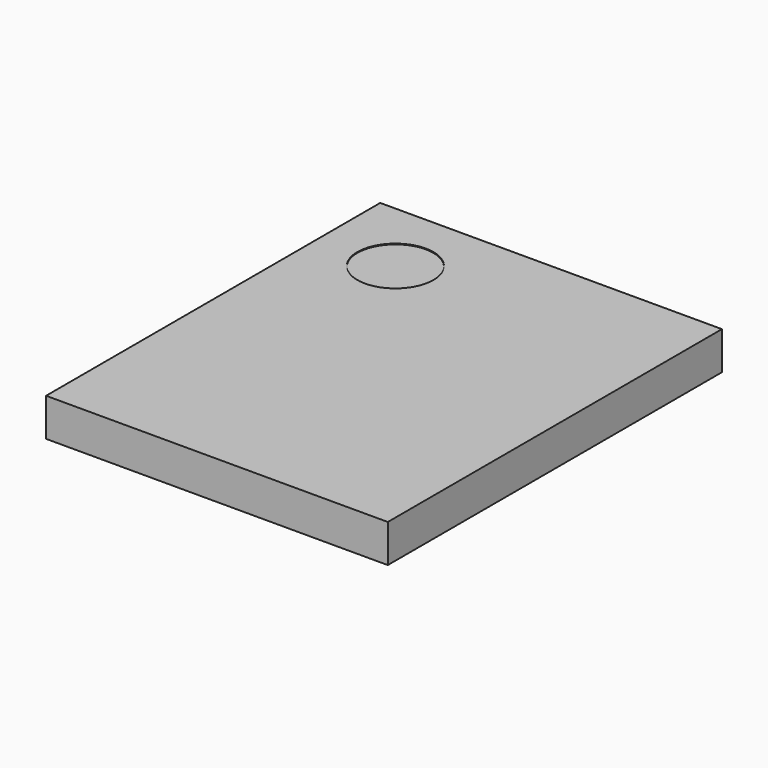
from build123d import *

# Parameters (mm, degrees)
CYLINDER018_R     = 0.5
CYLINDER018_DEPTH = 0.01
BOX051_W          = 4.5
BOX051_H          = 5.5
BOX051_DEPTH      = 0.5


with BuildPart() as cylinder013:
    # Cylinder018 → Cylinder018 (new body)
    with BuildSketch(Plane(origin=(1, 4.5, 0.49), x_dir=(1, 0, 0), z_dir=(0, 0, 1))):
        Circle(CYLINDER018_R)
    extrude(amount=CYLINDER018_DEPTH)


with BuildPart() as obj1:
    # Box051 → Box051 (new body)
    with BuildSketch(Plane.XY):
        with Locations((2.25, 2.75)):
            Rectangle(BOX051_W, BOX051_H)
    extrude(amount=BOX051_DEPTH)

    # Cut005: cut Cylinder013
    add(cylinder013.part, mode=Mode.SUBTRACT)


with BuildPart() as obj1_1:
    # Cut005 placement: moved
    add(obj1.part.moved(Location((-2.38, -2.38, 1.64))))


solid = obj1_1.part
